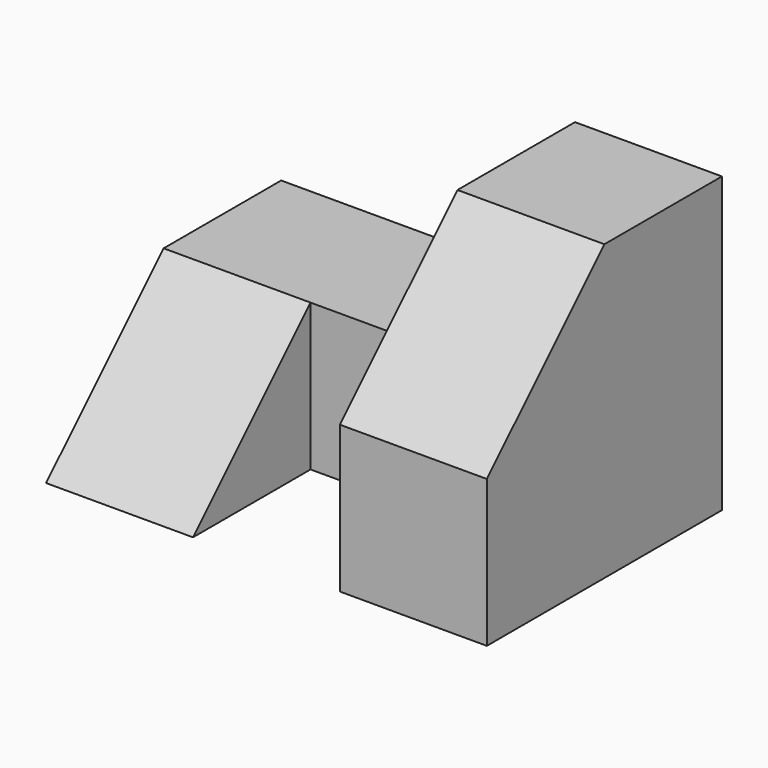
from build123d import *

# Parameters (mm, degrees)
F1_DEPTH = 38.1
F2_W     = 25.4
F2_H     = 12.7
F3_DEPTH = 25.4
F4_W     = 12.7
F4_H     = 12.7
F5_DEPTH = 12.7
F7_DEPTH = 12.7


with BuildPart() as f1:
    # F0 (on Right) → F1 (new body)
    with BuildSketch(Plane.YZ):
        Polygon((0, 12.7), (0, 0), (25.4, 0), (25.4, 25.4), (12.7, 25.4), align=None)
    extrude(amount=-F1_DEPTH)

    # F2 (on face) → F3 (cut)
    with BuildSketch(Plane(origin=(0, 25.4, 0), x_dir=(-1, 0, 0), z_dir=(0, 1, 0))):
        with Locations((25.4, 19.05)):
            Rectangle(F2_W, F2_H)
    extrude(amount=-F3_DEPTH, mode=Mode.SUBTRACT)

    # F4 (on face) → F5 (cut)
    with BuildSketch(Plane.XZ):
        with Locations((-19.05, 6.35)):
            Rectangle(F4_W, F4_H)
    extrude(amount=-F5_DEPTH, mode=Mode.SUBTRACT)

    # F6 (on face) → F7 (cut)
    with BuildSketch(Plane(origin=(-38.1, 0, 0), x_dir=(0, -1, 0), z_dir=(-1, 0, 0))):
        Polygon((-12.7, 12.7), (0, 0), (0, 12.7), align=None)
    extrude(amount=-F7_DEPTH, mode=Mode.SUBTRACT)


solid = f1.part
